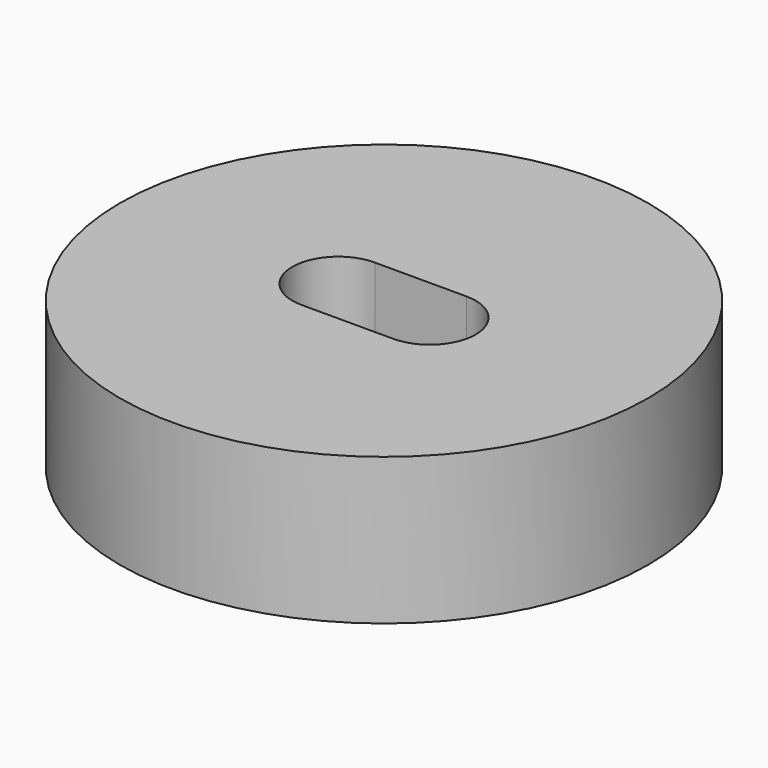
from build123d import *

# Parameters (mm, degrees)
F0_R     = 9
F1_DEPTH = 5
F4_DEPTH = 25


with BuildPart() as f1:
    # F0 (on Top) → F1 (new body)
    with BuildSketch(Plane.XY):
        Circle(F0_R)
    extrude(amount=F1_DEPTH)

    # F3 (on face) → F4 (cut)
    with BuildSketch(Plane.XY.offset(5)):
        with BuildLine():
            Line((-1.5625, -1.5625), (1.5625, -1.5625))
            ThreePointArc((1.5625, -1.5625), (3.125, 0), (1.5625, 1.5625))
            Line((1.5625, 1.5625), (-1.5625, 1.5625))
            ThreePointArc((-1.5625, 1.5625), (-3.125, 0), (-1.5625, -1.5625))
        make_face()
    extrude(amount=-F4_DEPTH, mode=Mode.SUBTRACT)


solid = f1.part
